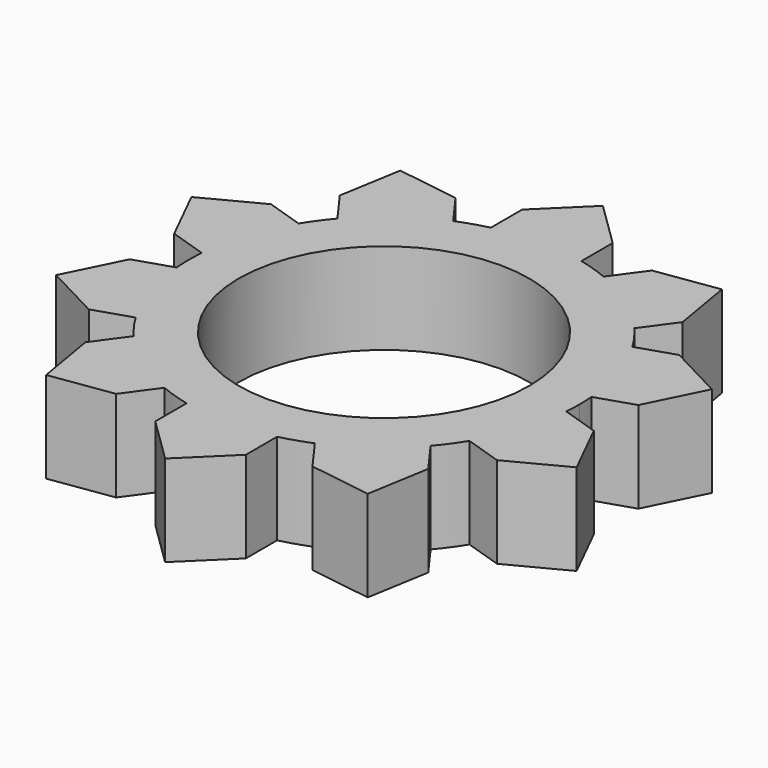
from build123d import *

# Parameters (mm, degrees)
F0_R     = 11.15
F1_DEPTH = 7


with BuildPart() as f1:
    # F0 (on Top) → F1 (new body)
    with BuildSketch(Plane.XY):
        with BuildLine():
            ThreePointArc((14.951319, -1.207507), (14.987825, -0.604244), (15, 0))
            ThreePointArc((15, 0), (14.987825, 0.604244), (14.951319, 1.207507))
            ThreePointArc((14.951319, 1.207507), (14.265848, 4.635255), (12.805626, 7.811271))
            ThreePointArc((12.805626, 7.811271), (12.135255, 8.816779), (11.386116, 9.765058))
            ThreePointArc((11.386116, 9.765058), (8.816779, 12.135255), (5.768619, 13.846409))
            ThreePointArc((5.768619, 13.846409), (4.635255, 14.265848), (3.471804, 14.592689))
            ThreePointArc((3.471804, 14.592689), (0, 15), (-3.471804, 14.592689))
            ThreePointArc((-3.471804, 14.592689), (-4.635255, 14.265848), (-5.768619, 13.846409))
            ThreePointArc((-5.768619, 13.846409), (-8.816779, 12.135255), (-11.386116, 9.765058))
            ThreePointArc((-11.386116, 9.765058), (-12.135255, 8.816779), (-12.805626, 7.811271))
            ThreePointArc((-12.805626, 7.811271), (-14.265848, 4.635255), (-14.951319, 1.207507))
            ThreePointArc((-14.951319, 1.207507), (-15, 0), (-14.951319, -1.207507))
            ThreePointArc((-14.951319, -1.207507), (-14.265848, -4.635255), (-12.805626, -7.811271))
            ThreePointArc((-12.805626, -7.811271), (-12.135255, -8.816779), (-11.386116, -9.765058))
            ThreePointArc((-11.386116, -9.765058), (-8.816779, -12.135255), (-5.768619, -13.846409))
            ThreePointArc((-5.768619, -13.846409), (-4.635255, -14.265848), (-3.471804, -14.592689))
            ThreePointArc((-3.471804, -14.592689), (0, -15), (3.471804, -14.592689))
            ThreePointArc((3.471804, -14.592689), (4.635255, -14.265848), (5.768619, -13.846409))
            ThreePointArc((5.768619, -13.846409), (8.816779, -12.135255), (11.386116, -9.765058))
            ThreePointArc((11.386116, -9.765058), (12.135255, -8.816779), (12.805626, -7.811271))
            ThreePointArc((12.805626, -7.811271), (14.265848, -4.635255), (14.951319, -1.207507))
        make_face()
        Circle(F0_R, mode=Mode.SUBTRACT)
        with BuildLine():
            ThreePointArc((12.805626, 7.811271), (14.265848, 4.635255), (14.951319, 1.207507))
            Line((14.951319, 1.207507), (17.804488, 2.134558))
            Line((17.804488, 2.134558), (19.964155, 6.486747))
            Line((19.964155, 6.486747), (15.658795, 8.738322))
            Line((15.658795, 8.738322), (12.805626, 7.811271))
        make_face()
        with BuildLine():
            Line((17.804488, -2.134558), (14.951319, -1.207507))
            ThreePointArc((14.951319, -1.207507), (14.265848, -4.635255), (12.805626, -7.811271))
            Line((12.805626, -7.811271), (15.658795, -8.738322))
            Line((15.658795, -8.738322), (19.964155, -6.486747))
            Line((19.964155, -6.486747), (17.804488, -2.134558))
        make_face()
        with BuildLine():
            ThreePointArc((5.768619, 13.846409), (8.816779, 12.135255), (11.386116, 9.765058))
            Line((11.386116, 9.765058), (13.149472, 12.192109))
            Line((13.149472, 12.192109), (12.338526, 16.982525))
            Line((12.338526, 16.982525), (7.531975, 16.27346))
            Line((7.531975, 16.27346), (5.768619, 13.846409))
        make_face()
        with BuildLine():
            Line((13.149472, -12.192109), (11.386116, -9.765058))
            ThreePointArc((11.386116, -9.765058), (8.816779, -12.135255), (5.768619, -13.846409))
            Line((5.768619, -13.846409), (7.531975, -16.27346))
            Line((7.531975, -16.27346), (12.338526, -16.982525))
            Line((12.338526, -16.982525), (13.149472, -12.192109))
        make_face()
        with BuildLine():
            ThreePointArc((-3.471804, 14.592689), (0, 15), (3.471804, 14.592689))
            Line((3.471804, 14.592689), (3.471804, 17.592689))
            Line((3.471804, 17.592689), (0, 20.991555))
            Line((0, 20.991555), (-3.471804, 17.592689))
            Line((-3.471804, 17.592689), (-3.471804, 14.592689))
        make_face()
        with BuildLine():
            Line((3.471804, -17.592689), (3.471804, -14.592689))
            ThreePointArc((3.471804, -14.592689), (0, -15), (-3.471804, -14.592689))
            Line((-3.471804, -14.592689), (-3.471804, -17.592689))
            Line((-3.471804, -17.592689), (0, -20.991555))
            Line((0, -20.991555), (3.471804, -17.592689))
        make_face()
        with BuildLine():
            ThreePointArc((-11.386116, 9.765058), (-8.816779, 12.135255), (-5.768619, 13.846409))
            Line((-5.768619, 13.846409), (-7.531975, 16.27346))
            Line((-7.531975, 16.27346), (-12.338526, 16.982525))
            Line((-12.338526, 16.982525), (-13.149472, 12.192109))
            Line((-13.149472, 12.192109), (-11.386116, 9.765058))
        make_face()
        with BuildLine():
            Line((-7.531975, -16.27346), (-5.768619, -13.846409))
            ThreePointArc((-5.768619, -13.846409), (-8.816779, -12.135255), (-11.386116, -9.765058))
            Line((-11.386116, -9.765058), (-13.149472, -12.192109))
            Line((-13.149472, -12.192109), (-12.338526, -16.982525))
            Line((-12.338526, -16.982525), (-7.531975, -16.27346))
        make_face()
        with BuildLine():
            ThreePointArc((-14.951319, 1.207507), (-14.265848, 4.635255), (-12.805626, 7.811271))
            Line((-12.805626, 7.811271), (-15.658795, 8.738322))
            Line((-15.658795, 8.738322), (-19.964155, 6.486747))
            Line((-19.964155, 6.486747), (-17.804488, 2.134558))
            Line((-17.804488, 2.134558), (-14.951319, 1.207507))
        make_face()
        with BuildLine():
            Line((-15.658795, -8.738322), (-12.805626, -7.811271))
            ThreePointArc((-12.805626, -7.811271), (-14.265848, -4.635255), (-14.951319, -1.207507))
            Line((-14.951319, -1.207507), (-17.804488, -2.134558))
            Line((-17.804488, -2.134558), (-19.964155, -6.486747))
            Line((-19.964155, -6.486747), (-15.658795, -8.738322))
        make_face()
    extrude(amount=F1_DEPTH)


solid = f1.part
